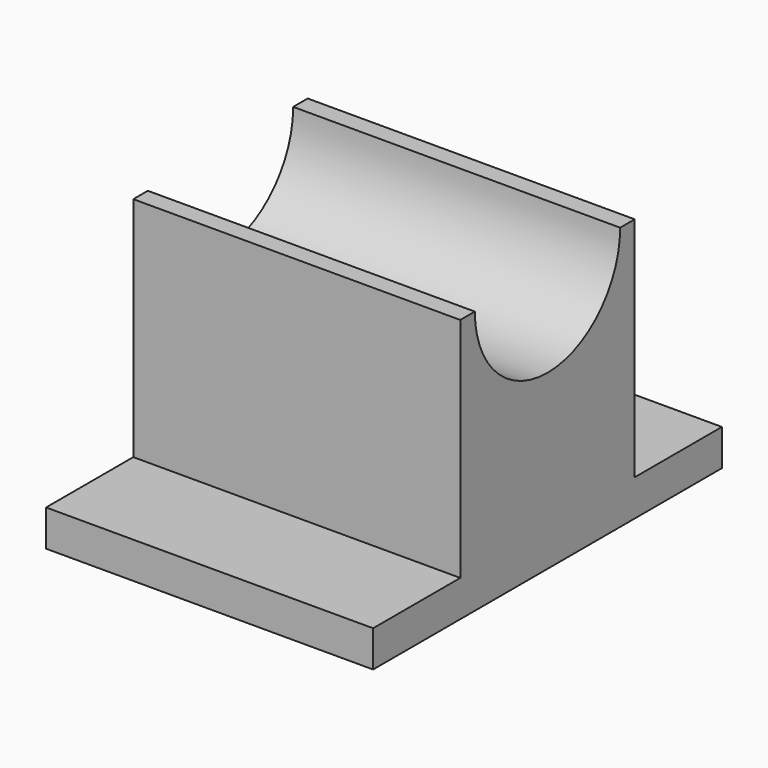
from build123d import *

# Parameters (mm, degrees)
F1_DEPTH = 114.3
F3_DEPTH = 114.301


with BuildPart() as f1:
    # F0 (on Right) → F1 (new body)
    with BuildSketch(Plane.YZ):
        Polygon((0, 12.7), (0, 0), (152.4, 0), (152.4, 12.7), (114.3, 12.7), (114.3, 92.075), (38.1, 92.075), (38.1, 12.7), align=None)
    extrude(amount=F1_DEPTH)

    # F2 (on face) → F3 (cut, through all)
    with BuildSketch(Plane.YZ.offset(114.3)):
        with BuildLine():
            ThreePointArc((44.45, 92.075), (76.2, 60.325), (107.95, 92.075))
            Line((107.95, 92.075), (44.45, 92.075))
        make_face()
    extrude(amount=-F3_DEPTH, mode=Mode.SUBTRACT)


solid = f1.part
